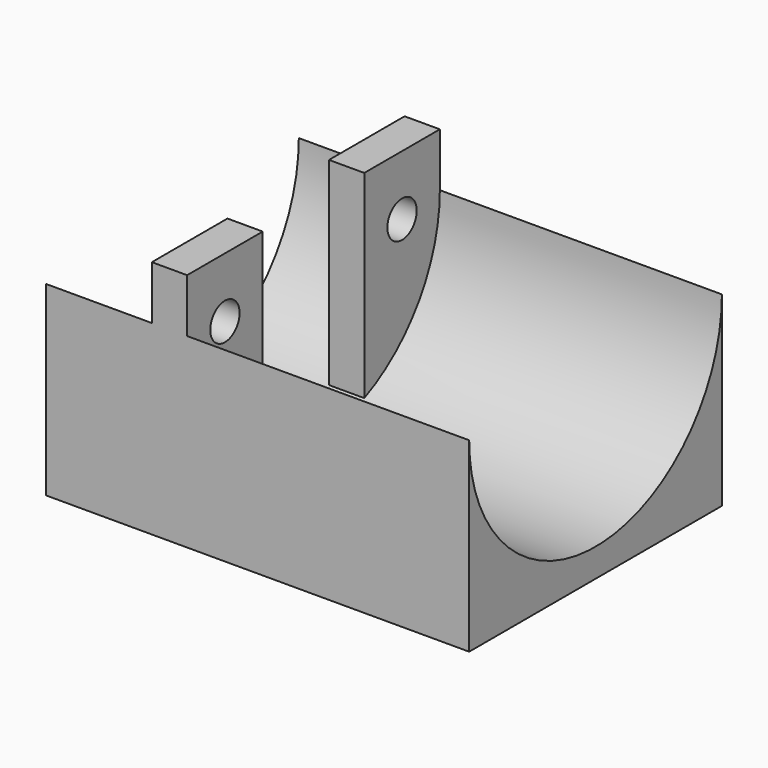
from build123d import *

# Parameters (mm, degrees)
F1_DEPTH = 30
F2_W     = 2.5
F2_H     = 6.7
F3_DEPTH = 17
F4_R     = 1.3
F5_DEPTH = 10.001


with BuildPart() as f1:
    # F0 (on Right) → F1 (new body)
    with BuildSketch(Plane.YZ):
        with BuildLine():
            Line((-11.2, 0), (-11.2, -13.2))
            Line((-11.2, -13.2), (11.2, -13.2))
            Line((11.2, -13.2), (11.2, 0))
            ThreePointArc((11.2, 0), (0, -11.2), (-11.2, 0))
        make_face()
    extrude(amount=F1_DEPTH)

    # F2 (on face) → F3 (join)
    with BuildSketch(Plane(origin=(0, 0, -13.2), x_dir=(1, 0, 0), z_dir=(0, 0, -1))):
        with Locations((8.75, 7.85)):
            Rectangle(F2_W, F2_H)
        with Locations((8.75, -7.85)):
            Rectangle(F2_W, F2_H)
    extrude(amount=-F3_DEPTH)

    # F4 (on face) → F5 (cut, through all)
    with BuildSketch(Plane.YZ.offset(10)):
        with Locations((-7.85, -0.45)):
            Circle(F4_R)
        with Locations((7.85, -0.45)):
            Circle(F4_R)
    extrude(amount=-F5_DEPTH, mode=Mode.SUBTRACT)


solid = f1.part
